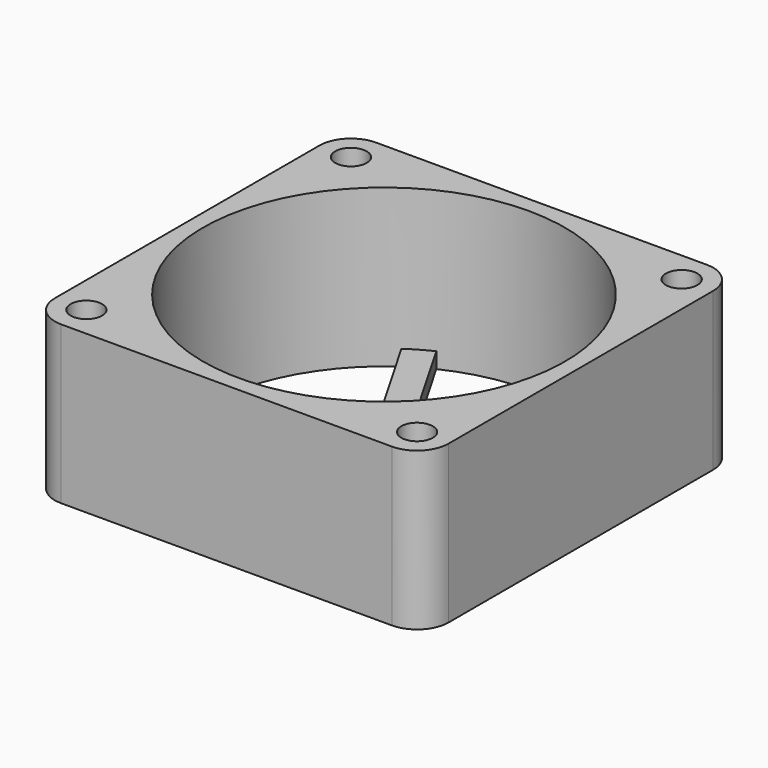
from build123d import *

# Parameters (mm, degrees)
SKETCH022_R           = 2
PAD007_DEPTH          = 20
SKETCH023_W           = 23
SKETCH023_H           = 20
PAD008_DEPTH          = 2
POLARPATTERN002_COUNT = 3


with BuildPart() as part:
    # Sketch022 → Pad007 (new body)
    with BuildSketch(Plane.XY):
        with BuildLine():
            Line((-21, 25), (21, 25))
            ThreePointArc((25, 21), (23.828427, 23.828427), (21, 25))
            Line((25, 21), (25, -21))
            ThreePointArc((21, -25), (23.828427, -23.828427), (25, -21))
            Line((21, -25), (-21, -25))
            ThreePointArc((-25, -21), (-23.828427, -23.828427), (-21, -25))
            Line((-25, -21), (-25, 21))
            ThreePointArc((-21, 25), (-23.828427, 23.828427), (-25, 21))
        make_face()
        with Locations((-21, -21)):
            Circle(SKETCH022_R, mode=Mode.SUBTRACT)
        with Locations((21, -21)):
            Circle(SKETCH022_R, mode=Mode.SUBTRACT)
        with Locations((21, 21)):
            Circle(SKETCH022_R, mode=Mode.SUBTRACT)
        with Locations((-21, 21)):
            Circle(SKETCH022_R, mode=Mode.SUBTRACT)
    extrude(amount=PAD007_DEPTH)

    # Sketch023 → Groove002 (revolve, cut)
    with BuildSketch(Plane.YZ):
        with Locations((11.5, 10)):
            Rectangle(SKETCH023_W, SKETCH023_H)
    revolve(axis=Axis((0, 0, 0), (0, 0, 1)), mode=Mode.SUBTRACT)

    # Sketch024 → Pad008 (join)
    with BuildSketch(Plane.XY):
        with BuildLine():
            ThreePointArc((10.859903, 1.75), (-11, 0), (10.859903, -1.75))
            Line((10.859903, -1.75), (25, -1.75))
            Line((25, -1.75), (25, 1.75))
            Line((25, 1.75), (10.859903, 1.75))
        make_face()
    pad008 = extrude(amount=PAD008_DEPTH)

    # PolarPattern002: Pad008 ×3 about axis
    polarpattern002_axis = Axis((0, 0, 0), (0, 0, 1))
    for i in range(1, POLARPATTERN002_COUNT):
        add(pad008.rotate(polarpattern002_axis, i * 360 / POLARPATTERN002_COUNT))


solid = part.part
